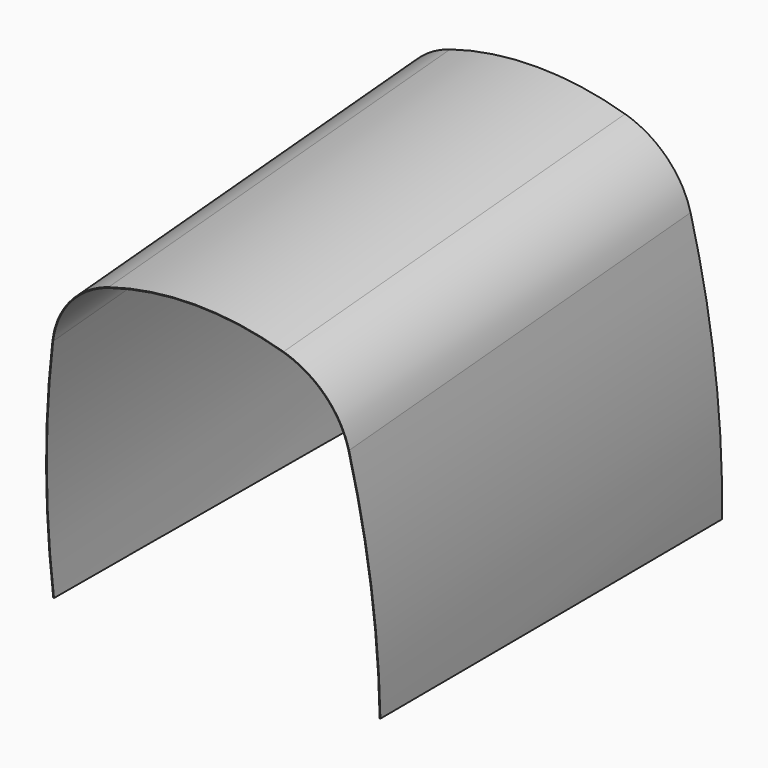
from build123d import *

# Parameters (mm, degrees)
F3_DEPTH = 2391.5932546919
F4_R     = 500
F5_W     = 3357.9323291779
F5_H     = 1677.524805069
F6_DEPTH = 1000
F7_T     = -4


with BuildPart() as f3:
    # F2 (on line) → F3 (new body, through all)
    with BuildSketch(Plane(origin=(0, 0, 0), x_dir=(-1, 0, 0), z_dir=(0, 0.9964971895, 0.0836262603))):
        with BuildLine():
            ThreePointArc((-775, 1807.0302467124), (-906.0837789516, 908.2593562679), (-900, 0))
            Line((-900, 0), (900, 0))
            ThreePointArc((900, 0), (906.0837789516, 908.2593562679), (775, 1807.0302467124))
            ThreePointArc((775, 1807.0302467124), (0, 2007.0302467124), (-775, 1807.0302467124))
        make_face()
    extrude(amount=-F3_DEPTH)

    # F4
    f4_edges = [f3.edges().sort_by_distance(p)[0] for p in [
        (775, -1342.72316, 1700.700562),
        (-775, -1342.72316, 1700.700562),
    ]]
    fillet(f4_edges, radius=F4_R)

    # F5 (on Right) → F6 (cut, symmetric)
    with BuildSketch(Plane.YZ):
        with Locations((-1678.9661645889, -838.7624025345)):
            Rectangle(F5_W, F5_H)
    extrude(amount=F6_DEPTH, both=True, mode=Mode.SUBTRACT)

    # F7
    f7_openings = [f3.faces().sort_by_distance(p)[0] for p in [
        (0, -78.481532, 935.192192),
        (0, -2470.159262, 836.023363),
        (0, -1202.911074, 0),
    ]]
    offset(amount=F7_T, openings=f7_openings, kind=Kind.INTERSECTION)


solid = f3.part
